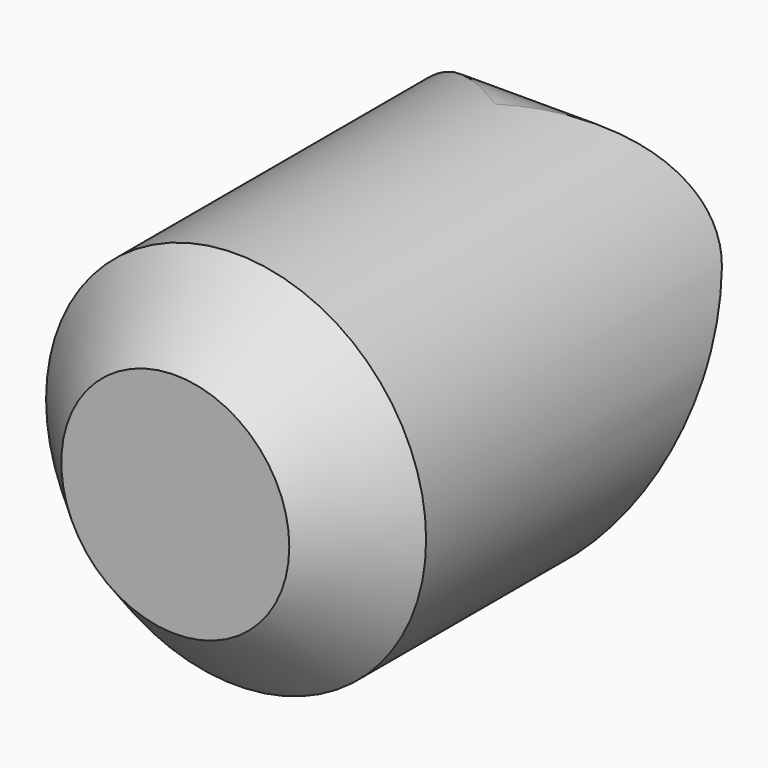
from build123d import *

# Parameters (mm, degrees)
F0_R          = 3.96875
F1_DEPTH      = 11.0998
F3_DEPTH      = 25.4
F3_DEPTH_BACK = 25.4
F4_SIZE2      = 1.5875
F4_SIZE       = 1.5875
F7_DEPTH      = 25.4
F7_DEPTH_BACK = 25.4


with BuildPart() as f1:
    # F0 (on Front) → F1 (new body)
    with BuildSketch(Plane.XZ):
        Circle(F0_R)
    extrude(amount=-F1_DEPTH)

    # F2 (on Right) → F3 (cut, two sides)
    with BuildSketch(Plane.YZ) as f3_sk:
        Polygon((11.0998, -21.43125), (11.0998, 3.96875), (-3.5648968374, -21.43125), align=None)
    extrude(amount=-F3_DEPTH, mode=Mode.SUBTRACT)
    extrude(f3_sk.sketch, amount=F3_DEPTH_BACK, mode=Mode.SUBTRACT)

    # F4
    f4_edges = [f1.edges().sort_by_distance(p)[0] for p in [
        (-3.96875, 0, 0),
    ]]
    chamfer(f4_edges, length=F4_SIZE, length2=F4_SIZE2)

    # F6 (on offset) → F7 (cut, two sides)
    with BuildSketch(Plane.YZ) as f7_sk:
        with BuildLine():
            ThreePointArc((8.350169343, 3.96875), (9.7249846715, 3.175), (9.7249846715, 1.5875))
            Line((9.7249846715, 1.5875), (11.0998, 3.96875))
            Line((11.0998, 3.96875), (8.350169343, 3.96875))
        make_face()
    extrude(amount=-F7_DEPTH, mode=Mode.SUBTRACT)
    extrude(f7_sk.sketch, amount=F7_DEPTH_BACK, mode=Mode.SUBTRACT)


solid = f1.part
